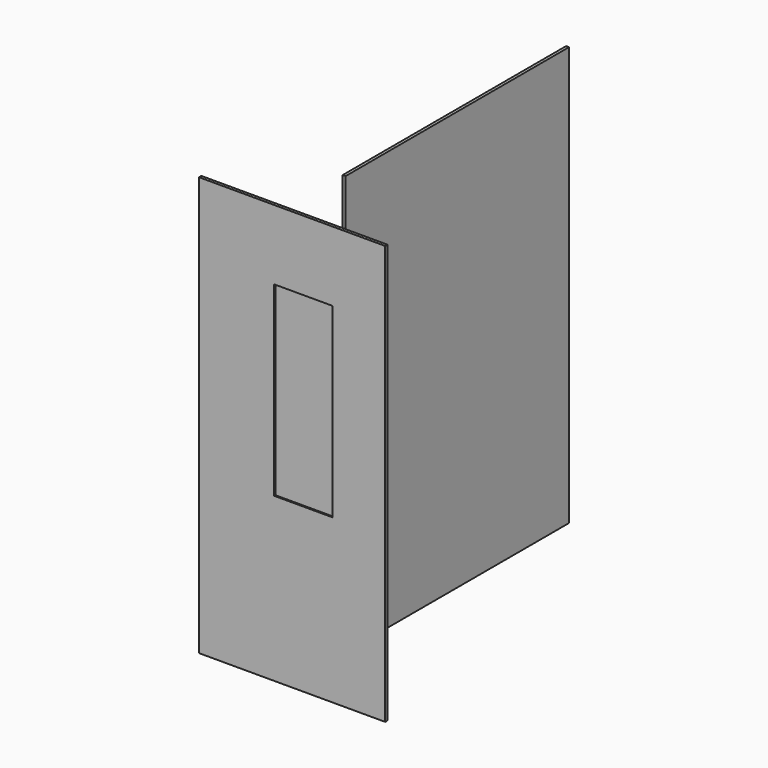
from build123d import *

# Parameters (mm, degrees)
F0_W     = 406.4
F0_H     = 914.4
F2_DEPTH = 3.175
F3_W     = 609.6
F3_H     = 914.4
F4_DEPTH = 3.175
F1_W     = 127
F1_H     = 406.4
F5_DEPTH = 3.176


with BuildPart() as f2:
    # F0 (on Front) → F2 (new body, symmetric)
    with BuildSketch(Plane.XZ):
        Rectangle(F0_W, F0_H)
    extrude(amount=F2_DEPTH, both=True)

    # F1 (on face) → F5 (cut, through all)
    with BuildSketch(Plane.XZ):
        with Locations((24.194895, 101.6)):
            Rectangle(F1_W, F1_H)
    extrude(amount=F5_DEPTH, mode=Mode.SUBTRACT)


with BuildPart() as f4:
    # F3 (on Right) → F4 (new body, symmetric)
    with BuildSketch(Plane.YZ):
        with Locations((443.417262, 11.572191)):
            Rectangle(F3_W, F3_H)
    extrude(amount=F4_DEPTH, both=True)


solid = Compound([f2.part, f4.part])
